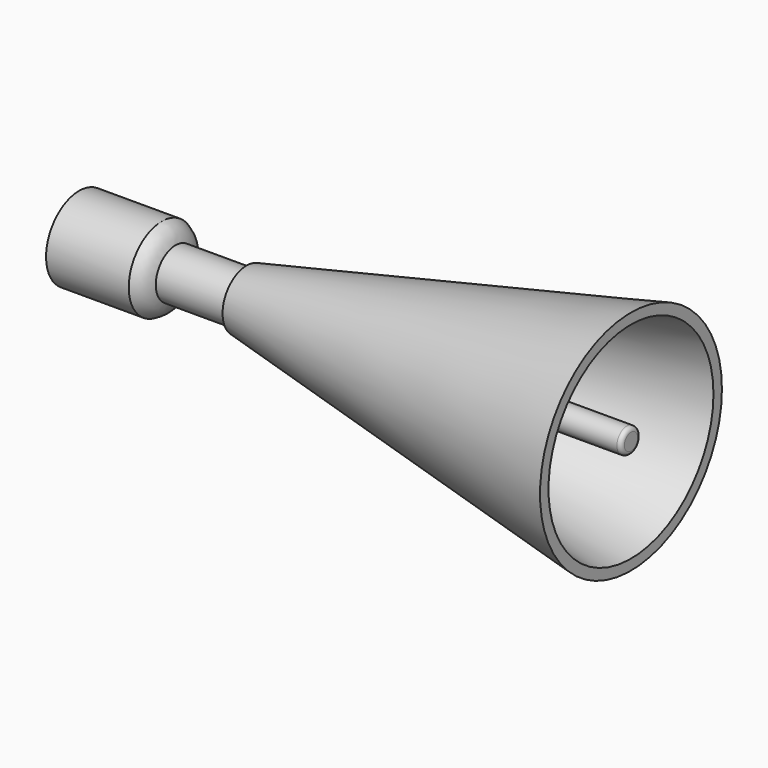
from build123d import *

# Parameters (mm, degrees)
F2_R = 2
F4_R = 14.5
F6_R = 55
F8_T = -5


with BuildPart() as f1:
    # F0 (on Front) → F1 (revolve)
    with BuildSketch(Plane.XZ):
        with BuildLine():
            Line((0, 0), (267, 0))
            Line((267, 0), (267, 6))
            Line((267, 6), (181, 6))
            Line((181, 6), (181, 9.5))
            Line((181, 9.5), (146, 9.5))
            Line((146, 9.5), (136.6698729811, 12))
            Line((136.6698729811, 12), (46.6698729811, 12))
            ThreePointArc((46.6698729811, 12), (44.3418175162, 16.8394710686), (40, 20))
            Line((40, 20), (0, 20))
            Line((0, 20), (0, 0))
        make_face()
    revolve(axis=Axis((133.5, 0, 0), (1, 0, 0)))

    # F2
    f2_edges = [f1.edges().sort_by_distance(p)[0] for p in [
        (267, 0, -6),
    ]]
    fillet(f2_edges, radius=F2_R)


with BuildPart() as f7:
    # F4 (on offset) → F7 section 0
    with BuildSketch(Plane.YZ.offset(81)):
        Circle(F4_R)
    # F6 (on offset) → F7 section 1
    with BuildSketch(Plane.YZ.offset(267)):
        Circle(F6_R)
    loft()

    # F8
    f8_openings = [f7.faces().sort_by_distance(p)[0] for p in [
        (267, 0, 0),
    ]]
    offset(amount=F8_T, openings=f8_openings, kind=Kind.INTERSECTION)


solid = Compound([f1.part, f7.part])
